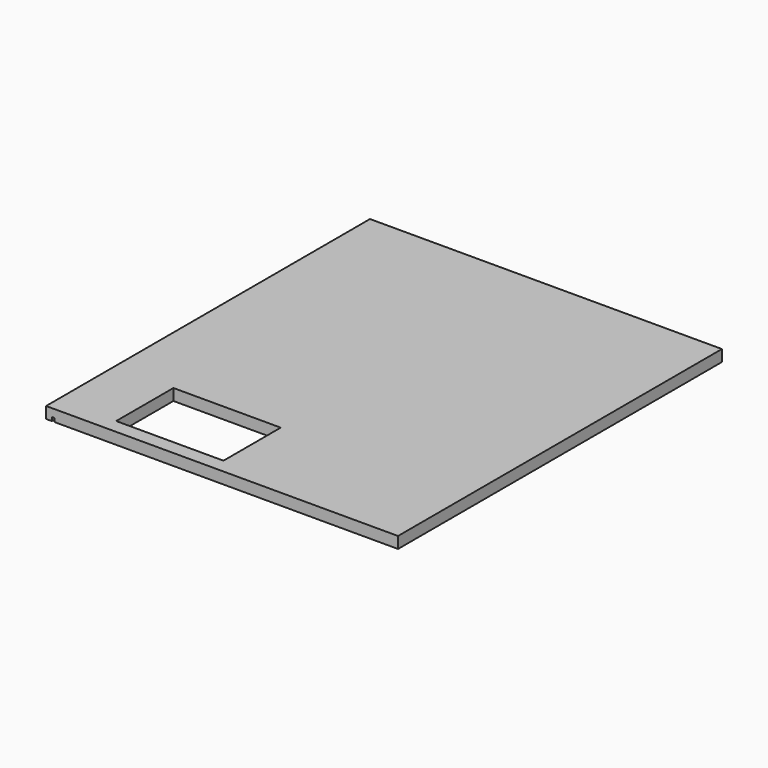
from build123d import *

# Parameters (mm, degrees)
F0_W     = 492
F0_H     = 566
F1_DEPTH = 16
F2_W     = 150
F2_H     = 100
F3_DEPTH = 16.001
F4_W     = 4
F4_H     = 5
F5_DEPTH = 566.001


with BuildPart() as f1:
    # F0 (on Top) → F1 (new body)
    with BuildSketch(Plane.XY):
        Rectangle(F0_W, F0_H)
    extrude(amount=F1_DEPTH)

    # F2 (on face) → F3 (cut, through all)
    with BuildSketch(Plane.XY.offset(16)):
        with Locations((-89, -213)):
            Rectangle(F2_W, F2_H)
    extrude(amount=-F3_DEPTH, mode=Mode.SUBTRACT)

    # F4 (on face) → F5 (cut, through all)
    with BuildSketch(Plane(origin=(0, 283, 0), x_dir=(-1, 0, 0), z_dir=(0, 1, 0))):
        with Locations((236, 2.5)):
            Rectangle(F4_W, F4_H)
    extrude(amount=-F5_DEPTH, mode=Mode.SUBTRACT)


solid = f1.part
